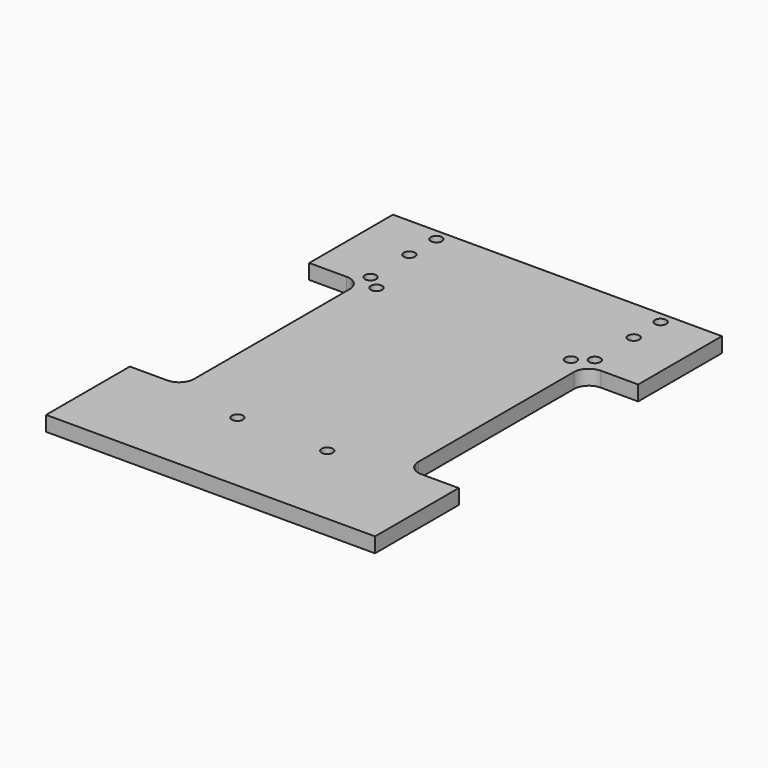
from build123d import *

# Parameters (mm, degrees)
F0_R     = 2.38125
F1_DEPTH = 6.35


with BuildPart() as f1:
    # F0 (on Top) → F1 (new body)
    with BuildSketch(Plane.XY):
        with BuildLine():
            Line((77.357605, 85.293555), (-62.342395, 85.293555))
            Line((-62.342395, 85.293555), (-62.342395, 40.843555))
            Line((-62.342395, 40.843555), (-46.467395, 40.843555))
            ThreePointArc((-46.467395, 40.843555), (-41.977267, 38.983683), (-40.117395, 34.493555))
            Line((-40.117395, 34.493555), (-40.117395, -48.056445))
            ThreePointArc((-40.117395, -48.056445), (-41.977267, -52.546573), (-46.467395, -54.406445))
            Line((-46.467395, -54.406445), (-62.342395, -54.406445))
            Line((-62.342395, -54.406445), (-62.342395, -98.856445))
            Line((-62.342395, -98.856445), (-11.542395, -98.856445))
            Line((-11.542395, -98.856445), (77.357605, -98.856445))
            Line((77.357605, -98.856445), (77.357605, -54.406445))
            Line((77.357605, -54.406445), (61.482605, -54.406445))
            ThreePointArc((61.482605, -54.406445), (56.992477, -52.546573), (55.132605, -48.056445))
            Line((55.132605, -48.056445), (55.132605, 34.493555))
            ThreePointArc((55.132605, 34.493555), (56.992477, 38.983683), (61.482605, 40.843555))
            Line((61.482605, 40.843555), (77.357605, 40.843555))
            Line((77.357605, 40.843555), (77.357605, 85.293555))
        make_face()
        with Locations((-11.542395, -60.756445)):
            Circle(F0_R, mode=Mode.SUBTRACT)
        with Locations((26.557605, -60.756445)):
            Circle(F0_R, mode=Mode.SUBTRACT)
        with Locations((-40.117395, 45.606055)):
            Circle(F0_R, mode=Mode.SUBTRACT)
        with Locations((-33.767395, 40.843555)):
            Circle(F0_R, mode=Mode.SUBTRACT)
        with Locations((-40.117395, 66.243555)):
            Circle(F0_R, mode=Mode.SUBTRACT)
        with Locations((-40.117395, 80.531055)):
            Circle(F0_R, mode=Mode.SUBTRACT)
        with Locations((48.782605, 40.843555)):
            Circle(F0_R, mode=Mode.SUBTRACT)
        with Locations((55.132605, 45.606055)):
            Circle(F0_R, mode=Mode.SUBTRACT)
        with Locations((55.132605, 66.243555)):
            Circle(F0_R, mode=Mode.SUBTRACT)
        with Locations((55.132605, 80.531055)):
            Circle(F0_R, mode=Mode.SUBTRACT)
    extrude(amount=F1_DEPTH)


solid = f1.part
